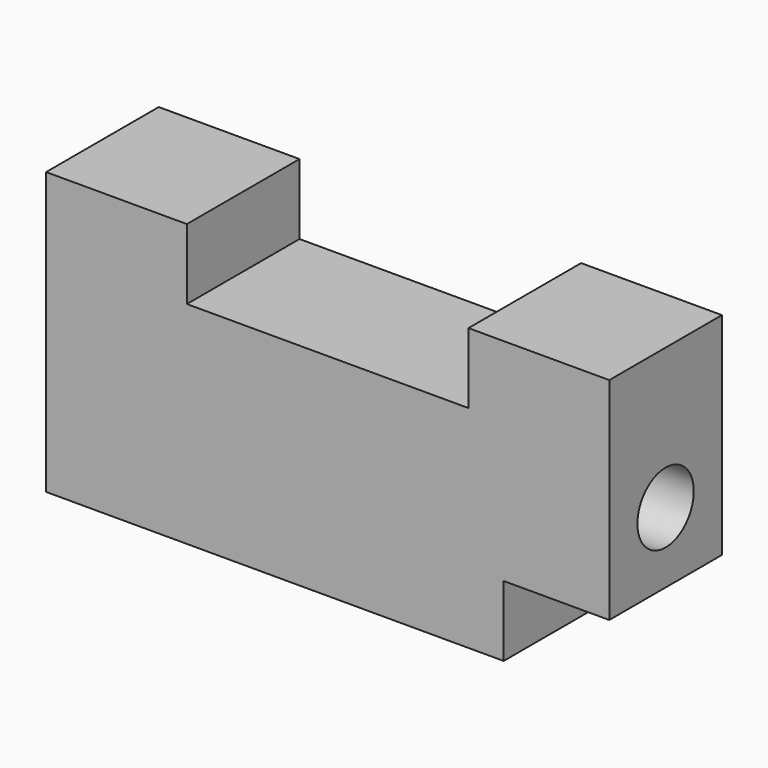
from build123d import *

# Parameters (mm, degrees)
F1_W     = 25.4
F1_H     = 12.7
F3_DEPTH = 25.4
F0_W     = 82.55
F0_H     = 38.1
F4_DEPTH = 25.4
F2_W     = 25.4
F2_H     = 38.1
F5_DEPTH = 25.4
F7_D     = 12.7


with BuildPart() as f3:
    # F1 (on Front) → F3 (new body)
    with BuildSketch(Plane.XZ):
        with Locations((-56.099266, 31.75)):
            Rectangle(F1_W, F1_H)
    extrude(amount=F3_DEPTH)

    # F0 (on Front) → F4 (join)
    with BuildSketch(Plane.XZ):
        with Locations((-27.524266, 6.35)):
            Rectangle(F0_W, F0_H)
    extrude(amount=F4_DEPTH)

    # F2 (on Front) → F5 (join)
    with BuildSketch(Plane.XZ):
        with Locations((20.100734, 19.05)):
            Rectangle(F2_W, F2_H)
    extrude(amount=F5_DEPTH)

    # F7 (through all)
    with Locations(Plane.YZ.offset(32.800734)):
        with Locations((-12.7, 12.7)):
            Hole(F7_D / 2)


solid = f3.part
